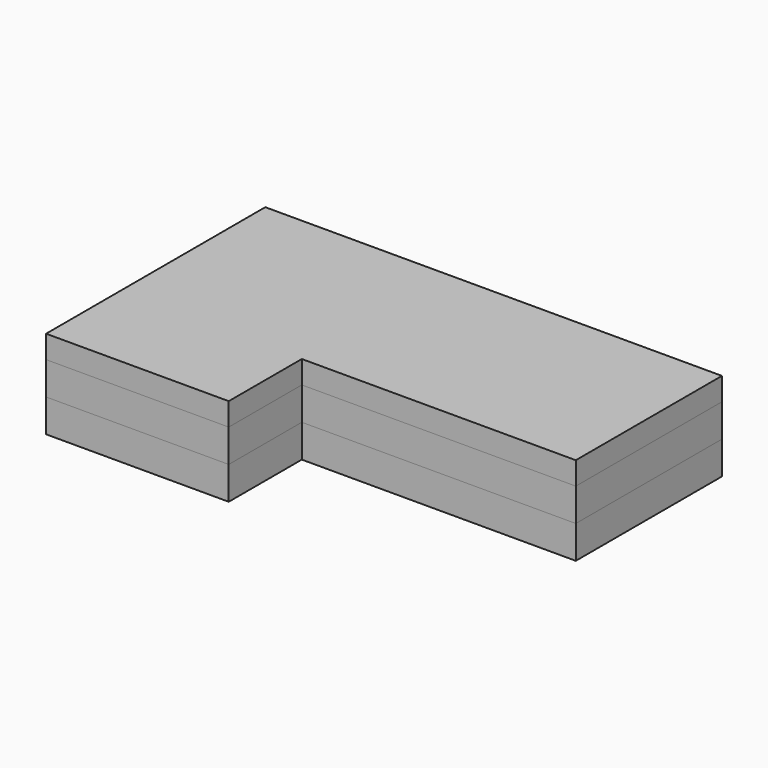
from build123d import *

# Parameters (mm, degrees)
F1_DEPTH = 144
F0_W     = 1200
F0_H     = 800
F2_DEPTH = 144
F3_W     = 1200
F3_H     = 800
F4_DEPTH = 144
F6_DEPTH = 100


with BuildPart() as f1:
    # F0 (on Top) → F1 (new body)
    with BuildSketch(Plane.XY):
        Polygon((-200, -200), (-200, 600), (-1000, 600), (-1000, -600), (-200, -600), align=None)
    extrude(amount=F1_DEPTH)


with BuildPart() as f2:
    # F0 (on Top) → F2 (new body)
    with BuildSketch(Plane.XY):
        with Locations((400, 200)):
            Rectangle(F0_W, F0_H)
    extrude(amount=F2_DEPTH)


with BuildPart() as f4:
    # F3 (on face) → F4 (new body)
    with BuildSketch(Plane.XY.offset(144)):
        Polygon((-200, 600), (-1000, 600), (-1000, -600), (-200, -600), (-200, -200), align=None)
        with Locations((400, 200)):
            Rectangle(F3_W, F3_H)
    extrude(amount=F4_DEPTH)


with BuildPart() as f6:
    # F5 (on face) → F6 (new body)
    with BuildSketch(Plane.XY.offset(288)):
        Polygon((-1000, -600), (-200, -600), (-200, -200), (1000, -200), (1000, 600), (-1000, 600), align=None)
    extrude(amount=F6_DEPTH)


solid = Compound([f1.part, f2.part, f4.part, f6.part])
